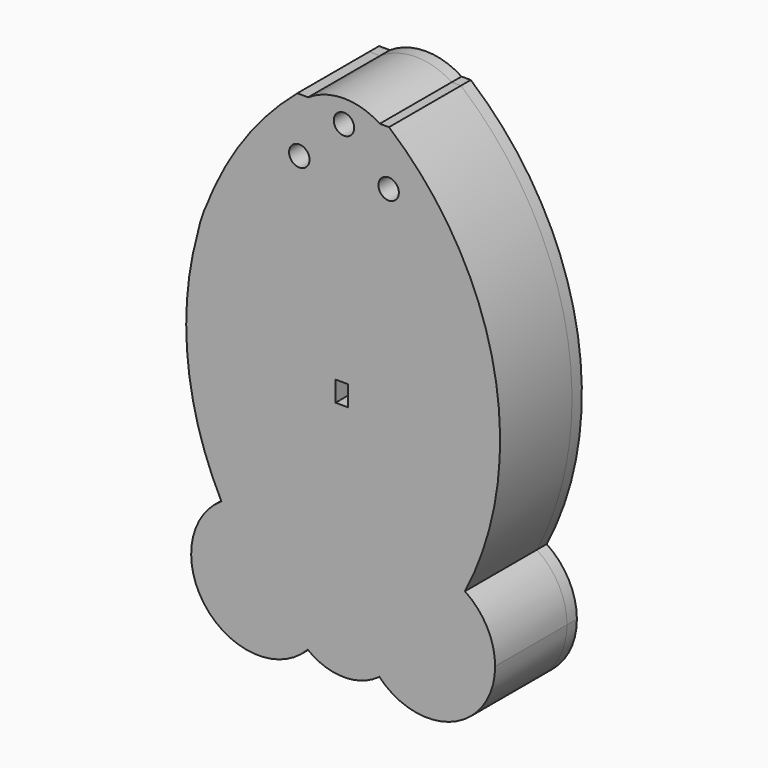
from build123d import *

# Parameters (mm, degrees)
F0_W     = 3
F0_H     = 5
F0_R     = 2.5
F1_DEPTH = 25
F2_DEPTH = 3


with BuildPart() as f1:
    # F0 (on Front) → F1 (new body)
    with BuildSketch(Plane.XZ):
        with BuildLine():
            ThreePointArc((-8.874473618, -60.3803354536), (-0.2500442461, -63.4429120532), (8.4756526138, -60.6820477446))
            ThreePointArc((8.4756526138, -60.6820477446), (8.5592164255, -60.6171314673), (8.6426907154, -60.5521001163))
            ThreePointArc((8.6426907154, -60.5521001163), (8.5889160489, -60.4964001171), (8.5354033323, -60.4404484071))
            ThreePointArc((8.5354033323, -60.4404484071), (7.8420779084, -38.4634470273), (29.6028800387, -35.3111811071))
            ThreePointArc((29.6028800387, -35.3111811071), (36.7424528219, 14.901532493), (11.0251886635, 58.6155168781))
            Line((11.0251886635, 58.6155168781), (8.7567111231, 58.6155168781))
            ThreePointArc((8.7567111231, 58.6155168781), (0, 61.2324429176), (-8.7567111231, 58.6155168781))
            Line((-8.7567111231, 58.6155168781), (-11.4211952728, 58.6155168781))
            ThreePointArc((-11.4211952728, 58.6155168781), (-22.9369072497, 46.4787523973), (-31.5511513118, 32.136246562))
            ThreePointArc((-31.5511513118, 32.136246562), (-32.4343026, 30.1455340285), (-33.2606538291, 28.130580869))
            ThreePointArc((-33.2606538291, 28.130580869), (-34.7625080708, 24.4731163296), (-35.7698018027, 20.6497706274))
            ThreePointArc((-35.7698018027, 20.6497706274), (-38.1928650118, -7.8781409447), (-29.9988866481, -35.3111811071))
            ThreePointArc((-29.9988866481, -35.3111811071), (-13.0776568531, -34.5265825779), (-4.3823958644, -49.0639843047))
            ThreePointArc((-4.3823958644, -49.0639843047), (-5.5464785938, -55.1516473594), (-8.874473618, -60.3803354536))
        make_face()
        with Locations((-0.5688162185, -2.5)):
            Rectangle(F0_W, F0_H, mode=Mode.SUBTRACT)
        with Locations((-10.9338862821, 45.273204802)):
            Circle(F0_R, mode=Mode.SUBTRACT)
        with BuildLine():
            ThreePointArc((13.43, 45.273204802), (10.93, 42.773204802), (8.43, 45.273204802))
            ThreePointArc((8.43, 45.273204802), (10.93, 47.773204802), (13.43, 45.273204802))
        make_face(mode=Mode.SUBTRACT)
        with Locations((0, 55.676382035)):
            Circle(F0_R, mode=Mode.SUBTRACT)
        with BuildLine():
            ThreePointArc((8.6426907154, -60.5521001163), (8.5592164255, -60.6171314673), (8.4756526138, -60.6820477446))
            ThreePointArc((8.4756526138, -60.6820477446), (8.5611519745, -60.6191892874), (8.6461851726, -60.5557016387))
            ThreePointArc((8.6461851726, -60.5557016387), (8.6444378071, -60.5539010104), (8.6426907154, -60.5521001163))
        make_face()
        with BuildLine():
            ThreePointArc((8.7843593079, -60.4413080042), (8.7135574427, -60.4967455294), (8.6426907154, -60.5521001163))
            ThreePointArc((8.6426907154, -60.5521001163), (8.6444378071, -60.5539010104), (8.6461851726, -60.5557016387))
            ThreePointArc((8.6461851726, -60.5557016387), (26.6866566944, -64.3547227983), (36.9863892551, -49.0639843047))
            ThreePointArc((36.9863892551, -49.0639843047), (35.0237909818, -41.2592452934), (29.6028800387, -35.3111811071))
            ThreePointArc((29.6028800387, -35.3111811071), (7.8420779084, -38.4634470273), (8.5354033323, -60.4404484071))
            Line((8.5354033323, -60.4404484071), (8.7843593079, -60.4413080042))
        make_face()
        with BuildLine():
            Line((-9.2597323875, -60.3790052292), (-8.874473618, -60.3803354536))
            ThreePointArc((-8.874473618, -60.3803354536), (-5.5464785938, -55.1516473594), (-4.3823958644, -49.0639843047))
            ThreePointArc((-4.3823958644, -49.0639843047), (-13.0776568531, -34.5265825779), (-29.9988866481, -35.3111811071))
            ThreePointArc((-29.9988866481, -35.3111811071), (-33.5763083284, -59.6050746827), (-9.0386973248, -60.5521001163))
            ThreePointArc((-9.0386973248, -60.5521001163), (-9.1492939508, -60.4656536734), (-9.2597323875, -60.3790052292))
        make_face()
        with BuildLine():
            ThreePointArc((-9.0386973248, -60.5521001163), (-8.9562762396, -60.4665134406), (-8.874473618, -60.3803354536))
            Line((-8.874473618, -60.3803354536), (-9.2597323875, -60.3790052292))
            ThreePointArc((-9.2597323875, -60.3790052292), (-9.1492939508, -60.4656536734), (-9.0386973248, -60.5521001163))
        make_face()
    extrude(amount=F1_DEPTH)


with BuildPart() as f2:
    # F0 (on Front) → F2 (new body)
    with BuildSketch(Plane.XZ):
        with BuildLine():
            ThreePointArc((-8.874473618, -60.3803354536), (-0.2500442461, -63.4429120532), (8.4756526138, -60.6820477446))
            ThreePointArc((8.4756526138, -60.6820477446), (8.5592164255, -60.6171314673), (8.6426907154, -60.5521001163))
            ThreePointArc((8.6426907154, -60.5521001163), (8.5889160489, -60.4964001171), (8.5354033323, -60.4404484071))
            ThreePointArc((8.5354033323, -60.4404484071), (7.8420779084, -38.4634470273), (29.6028800387, -35.3111811071))
            ThreePointArc((29.6028800387, -35.3111811071), (36.7424528219, 14.901532493), (11.0251886635, 58.6155168781))
            Line((11.0251886635, 58.6155168781), (8.7567111231, 58.6155168781))
            ThreePointArc((8.7567111231, 58.6155168781), (0, 61.2324429176), (-8.7567111231, 58.6155168781))
            Line((-8.7567111231, 58.6155168781), (-11.4211952728, 58.6155168781))
            ThreePointArc((-11.4211952728, 58.6155168781), (-22.9369072497, 46.4787523973), (-31.5511513118, 32.136246562))
            ThreePointArc((-31.5511513118, 32.136246562), (-32.4343026, 30.1455340285), (-33.2606538291, 28.130580869))
            ThreePointArc((-33.2606538291, 28.130580869), (-34.7625080708, 24.4731163296), (-35.7698018027, 20.6497706274))
            ThreePointArc((-35.7698018027, 20.6497706274), (-38.1928650118, -7.8781409447), (-29.9988866481, -35.3111811071))
            ThreePointArc((-29.9988866481, -35.3111811071), (-13.0776568531, -34.5265825779), (-4.3823958644, -49.0639843047))
            ThreePointArc((-4.3823958644, -49.0639843047), (-5.5464785938, -55.1516473594), (-8.874473618, -60.3803354536))
        make_face()
        with Locations((-0.5688162185, -2.5)):
            Rectangle(F0_W, F0_H, mode=Mode.SUBTRACT)
        with Locations((-10.9338862821, 45.273204802)):
            Circle(F0_R, mode=Mode.SUBTRACT)
        with BuildLine():
            ThreePointArc((13.43, 45.273204802), (10.93, 42.773204802), (8.43, 45.273204802))
            ThreePointArc((8.43, 45.273204802), (10.93, 47.773204802), (13.43, 45.273204802))
        make_face(mode=Mode.SUBTRACT)
        with Locations((0, 55.676382035)):
            Circle(F0_R, mode=Mode.SUBTRACT)
        with BuildLine():
            ThreePointArc((8.6426907154, -60.5521001163), (8.5592164255, -60.6171314673), (8.4756526138, -60.6820477446))
            ThreePointArc((8.4756526138, -60.6820477446), (8.5611519745, -60.6191892874), (8.6461851726, -60.5557016387))
            ThreePointArc((8.6461851726, -60.5557016387), (8.6444378071, -60.5539010104), (8.6426907154, -60.5521001163))
        make_face()
        with BuildLine():
            ThreePointArc((8.7843593079, -60.4413080042), (8.7135574427, -60.4967455294), (8.6426907154, -60.5521001163))
            ThreePointArc((8.6426907154, -60.5521001163), (8.6444378071, -60.5539010104), (8.6461851726, -60.5557016387))
            ThreePointArc((8.6461851726, -60.5557016387), (26.6866566944, -64.3547227983), (36.9863892551, -49.0639843047))
            ThreePointArc((36.9863892551, -49.0639843047), (35.0237909818, -41.2592452934), (29.6028800387, -35.3111811071))
            ThreePointArc((29.6028800387, -35.3111811071), (7.8420779084, -38.4634470273), (8.5354033323, -60.4404484071))
            Line((8.5354033323, -60.4404484071), (8.7843593079, -60.4413080042))
        make_face()
        with BuildLine():
            Line((-9.2597323875, -60.3790052292), (-8.874473618, -60.3803354536))
            ThreePointArc((-8.874473618, -60.3803354536), (-5.5464785938, -55.1516473594), (-4.3823958644, -49.0639843047))
            ThreePointArc((-4.3823958644, -49.0639843047), (-13.0776568531, -34.5265825779), (-29.9988866481, -35.3111811071))
            ThreePointArc((-29.9988866481, -35.3111811071), (-33.5763083284, -59.6050746827), (-9.0386973248, -60.5521001163))
            ThreePointArc((-9.0386973248, -60.5521001163), (-9.1492939508, -60.4656536734), (-9.2597323875, -60.3790052292))
        make_face()
        with BuildLine():
            ThreePointArc((-9.0386973248, -60.5521001163), (-8.9562762396, -60.4665134406), (-8.874473618, -60.3803354536))
            Line((-8.874473618, -60.3803354536), (-9.2597323875, -60.3790052292))
            ThreePointArc((-9.2597323875, -60.3790052292), (-9.1492939508, -60.4656536734), (-9.0386973248, -60.5521001163))
        make_face()
    extrude(amount=F2_DEPTH)


solid = Compound([f1.part, f2.part])
